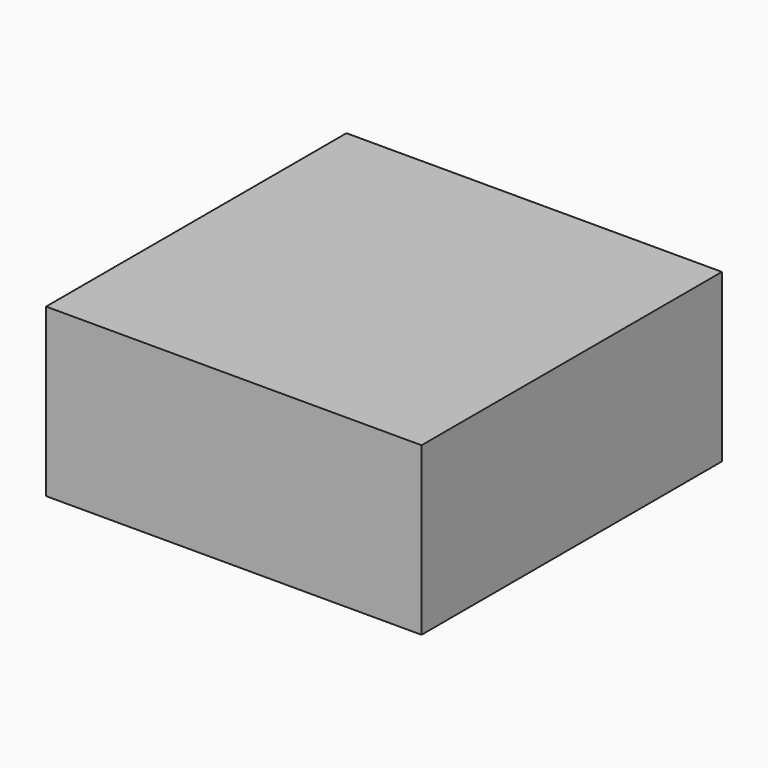
from build123d import *

# Parameters (mm, degrees)
F2_START = 1.5
F1_W     = 27
F1_H     = 27
F2_DEPTH = 12


with BuildPart() as f2:
    # F1 (on Top) → F2 (new body)
    with BuildSketch(Plane.XY.offset(F2_START)):
        with Locations((-21.8136865266, 0)):
            Rectangle(F1_W, F1_H)
    extrude(amount=F2_DEPTH)


solid = f2.part
